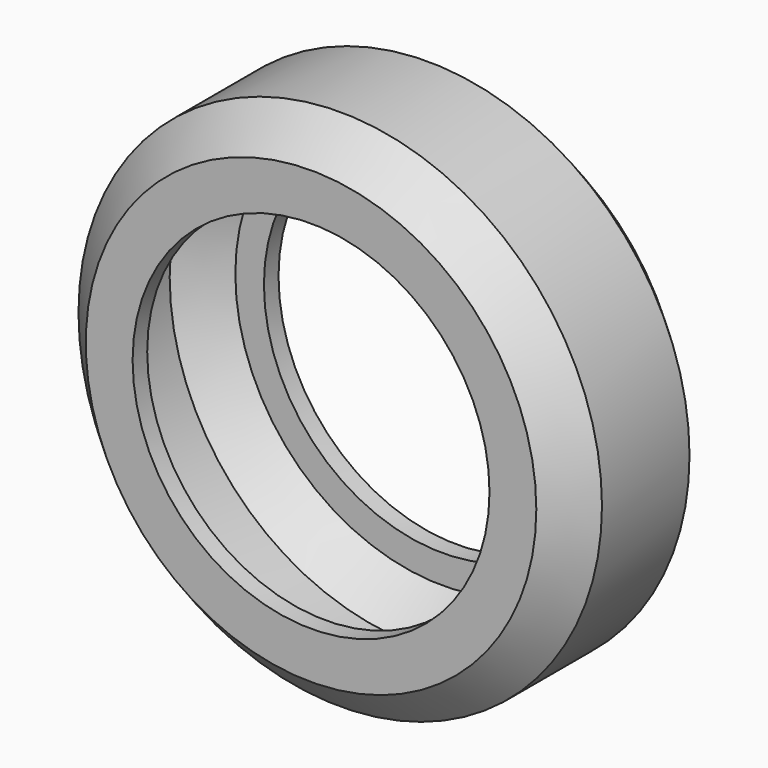
from build123d import *

# Parameters (mm, degrees)
F0_R     = 36.4522696474
F0_R_2   = 24.8513580129
F1_DEPTH = 25.4
F2_T     = -2.54
F3_SIZE  = 5.08
F4_SIZE  = 5.08


with BuildPart() as f1:
    # F0 (on Front) → F1 (new body)
    with BuildSketch(Plane.XZ):
        Circle(F0_R)
        Circle(F0_R_2, mode=Mode.SUBTRACT)
    extrude(amount=F1_DEPTH)

    # F2
    f2_openings = [f1.faces().sort_by_distance(p)[0] for p in [
        (-24.851358, -12.7, 0),
    ]]
    offset(amount=F2_T, openings=f2_openings)

    # F3
    f3_edges = [f1.edges().sort_by_distance(p)[0] for p in [
        (33.91227, -12.7, 0),
        (-33.91227, -2.54, 0),
        (-33.91227, -22.86, 0),
    ]]
    chamfer(f3_edges, length=F3_SIZE)

    # F4
    f4_edges = [f1.edges().sort_by_distance(p)[0] for p in [
        (36.45227, -12.7, 0),
        (-36.45227, 0, 0),
        (-36.45227, -25.4, 0),
    ]]
    chamfer(f4_edges, length=F4_SIZE)


solid = f1.part
